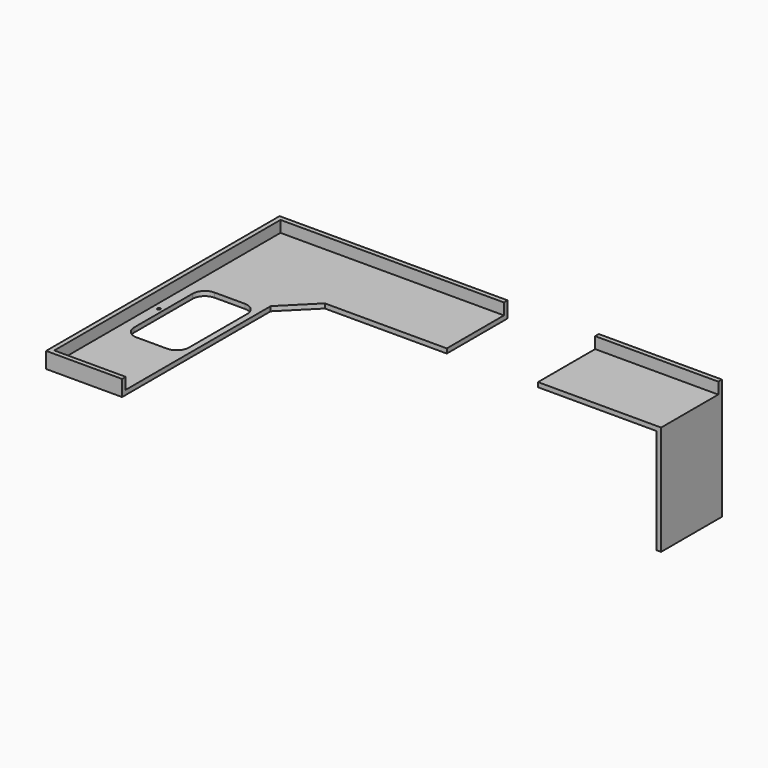
from build123d import *

# Parameters (mm, degrees)
F0_W          = 38.1
F0_H          = 635
F1_DEPTH      = 38.1
F2_DEPTH      = 876.3
F4_DEPTH      = 95.25
F5_W          = 762
F5_H          = 807.1839261055
F6_DEPTH      = 203.2
F6_DEPTH_BACK = 203.2
F7_R          = 12.7
F8_DEPTH      = 127


with BuildPart() as f1:
    # F0 (on Top) → F1 (new body)
    with BuildSketch(Plane.XY):
        Polygon((1828.8, -317.5), (1828.8, 317.5), (-1828.8, 317.5), (-1828.8, -317.5), (-1193.8, -317.5), (-942.3528286101, -317.5), align=None)
        Polygon((-1193.8, -317.5), (-1828.8, -317.5), (-1828.8, -2120.9), (-1193.8, -2120.9), (-1193.8, -568.9471713899), align=None)
        with Locations((1847.85, 0)):
            Rectangle(F0_W, F0_H)
        Polygon((-1193.8, -568.9471713899), (-942.3528286101, -317.5), (-1193.8, -317.5), align=None)
    extrude(amount=F1_DEPTH)

    # F0 (on Top) → F2 (join)
    with BuildSketch(Plane.XY):
        with Locations((1847.85, 0)):
            Rectangle(F0_W, F0_H)
    extrude(amount=-F2_DEPTH)

    # F3 (on face) → F4 (join)
    with BuildSketch(Plane.XY.offset(38.1)):
        Polygon((-1828.8, 279.4), (-1828.8, -2120.9), (-1790.7, -2120.9), (-1193.8, -2120.9), (-1193.8, -2082.8), (-1790.7, -2082.8), (-1790.7, 279.4), (1866.9, 279.4), (1866.9, 317.5), (-1790.7, 317.5), (-1828.8, 317.5), align=None)
    extrude(amount=F4_DEPTH)

    # F5 (on face) → F6 (cut, two sides)
    with BuildSketch(Plane.XY.offset(38.1)) as f6_sk:
        with Locations((457.2, 86.0919630527)):
            Rectangle(F5_W, F5_H)
    extrude(amount=-F6_DEPTH, mode=Mode.SUBTRACT)
    extrude(f6_sk.sketch, amount=F6_DEPTH_BACK, mode=Mode.SUBTRACT)

    # F7 (on face) → F8 (cut)
    with BuildSketch(Plane.XY.offset(38.1)):
        with BuildLine():
            ThreePointArc((-1244.6, -749.3), (-1274.3579510314, -677.4579510314), (-1346.2, -647.7))
            Line((-1346.2, -647.7), (-1600.2, -647.7))
            ThreePointArc((-1600.2, -647.7), (-1672.0420489686, -677.4579510314), (-1701.8, -749.3))
            Line((-1701.8, -749.3), (-1701.8, -1358.9))
            ThreePointArc((-1701.8, -1358.9), (-1672.0420489686, -1430.7420489686), (-1600.2, -1460.5))
            Line((-1600.2, -1460.5), (-1346.2, -1460.5))
            ThreePointArc((-1346.2, -1460.5), (-1274.3579510314, -1430.7420489686), (-1244.6, -1358.9))
            Line((-1244.6, -1358.9), (-1244.6, -749.3))
        make_face()
        with Locations((-1739.9, -1054.1)):
            Circle(F7_R)
    extrude(amount=-F8_DEPTH, mode=Mode.SUBTRACT)


solid = f1.part
